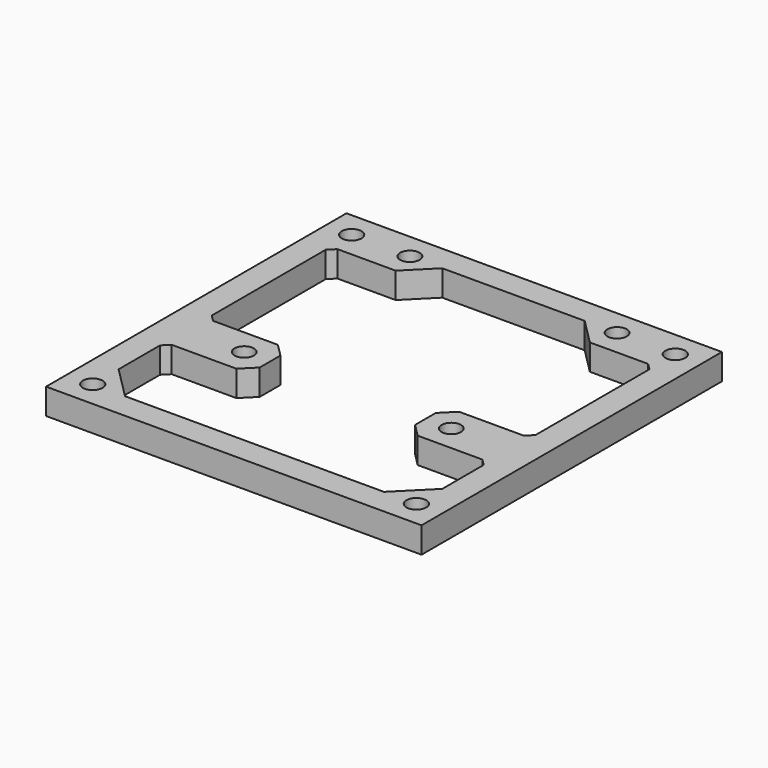
from build123d import *

# Parameters (mm, degrees)
SKETCH009_W     = 58
SKETCH009_H     = 58
SKETCH009_R     = 1.525
SKETCH009_R_2   = 1.5
PAD005_DEPTH    = 4
CHAMFER_SIZE    = 2
CHAMFER001_SIZE = 1


with BuildPart() as part:
    # Sketch009 → Pad005 (new body)
    with BuildSketch(Plane.XY):
        Rectangle(SKETCH009_W, SKETCH009_H)
        with Locations((-25, 25)):
            Circle(SKETCH009_R, mode=Mode.SUBTRACT)
        with Locations((25, 25)):
            Circle(SKETCH009_R, mode=Mode.SUBTRACT)
        with Locations((25, -25)):
            Circle(SKETCH009_R, mode=Mode.SUBTRACT)
        with Locations((-25, -25)):
            Circle(SKETCH009_R, mode=Mode.SUBTRACT)
        with Locations((-16, 25)):
            Circle(SKETCH009_R_2, mode=Mode.SUBTRACT)
        with Locations((16, 25)):
            Circle(SKETCH009_R_2, mode=Mode.SUBTRACT)
        with Locations((-16, -7)):
            Circle(SKETCH009_R_2, mode=Mode.SUBTRACT)
        with Locations((16, -7)):
            Circle(SKETCH009_R_2, mode=Mode.SUBTRACT)
        Polygon((-25, -3), (-12, -3), (-12, -11), (-25, -11), (-25, -20), (-20, -25), (20, -25), (25, -20), (25, -11), (12, -11), (12, -3), (25, -3), (25, 21), (15, 21), (11, 25), (-11, 25), (-15, 21), (-25, 21), align=None, mode=Mode.SUBTRACT)
    extrude(amount=PAD005_DEPTH)

    # Chamfer
    chamfer_edges = [part.edges().sort_by_distance(p)[0] for p in [
        (-12, -3, 2),
        (-12, -11, 2),
        (12, -11, 2),
        (12, -3, 2),
    ]]
    chamfer(chamfer_edges, length=CHAMFER_SIZE)

    # Chamfer001
    chamfer001_edges = [part.edges().sort_by_distance(p)[0] for p in [
        (-25, -3, 2),
        (-25, 21, 2),
        (25, 21, 2),
        (25, -3, 2),
        (-25, -11, 2),
        (25, -11, 2),
    ]]
    chamfer(chamfer001_edges, length=CHAMFER001_SIZE)


solid = part.part
